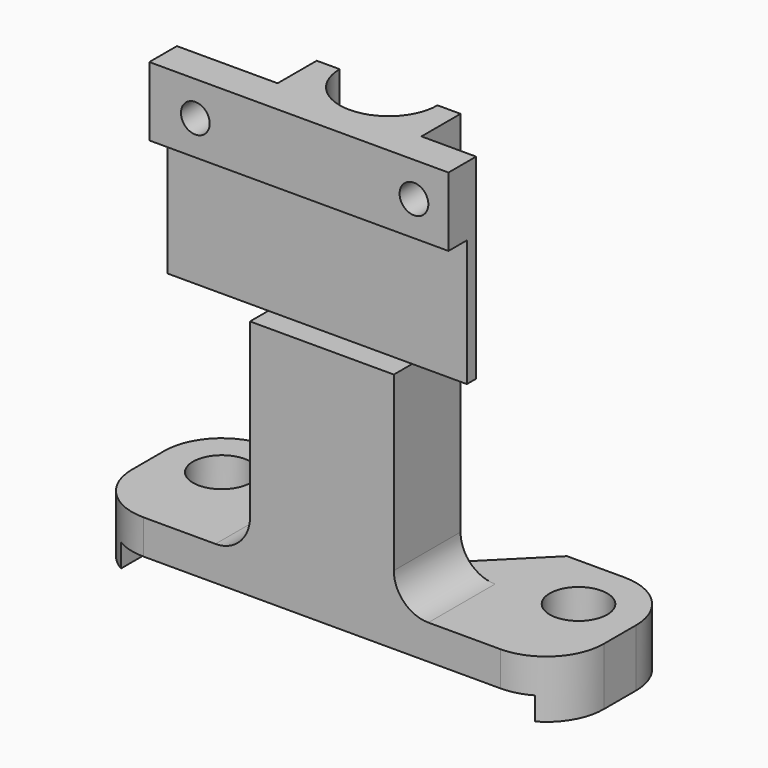
from build123d import *

# Parameters (mm, degrees)
F0_R      = 2.5
F1_DEPTH  = 5
F3_DEPTH  = 40
F4_W      = 8.75
F4_H      = 3
F4_W_2    = 4.75
F5_DEPTH  = 17
F7_DEPTH  = 2
F8_D      = 2.5
F9_R      = 5
F11_DEPTH = 2
F12_R     = 3


with BuildPart() as f1:
    # F0 (on Top) → F1 (new body)
    with BuildSketch(Plane.XY):
        with BuildLine():
            Line((10.5, 5), (4.25, -1.25))
            ThreePointArc((4.25, -1.25), (0, -5.5), (-4.25, -1.25))
            Line((-4.25, -1.25), (-10.5, 5))
            Line((-10.5, 5), (-20.5, 5))
            Line((-20.5, 5), (-20.5, -8.5))
            Line((-20.5, -8.5), (0, -8.5))
            Line((0, -8.5), (20.5, -8.5))
            Line((20.5, -8.5), (20.5, 5))
            Line((20.5, 5), (10.5, 5))
        make_face()
        with Locations((-15.5, 0)):
            Circle(F0_R, mode=Mode.SUBTRACT)
        with Locations((15.5, 0)):
            Circle(F0_R, mode=Mode.SUBTRACT)
    extrude(amount=F1_DEPTH)

    # F2 (on face) → F3 (join)
    with BuildSketch(Plane(origin=(0, 0, 0), x_dir=(1, 0, 0), z_dir=(0, 0, -1))):
        with BuildLine():
            Line((-6.25, 1.25), (-4.25, 1.25))
            ThreePointArc((-4.25, 1.25), (0, 5.5), (4.25, 1.25))
            Line((4.25, 1.25), (6.25, 1.25))
            Line((6.25, 1.25), (6.25, 8.5))
            Line((6.25, 8.5), (-6.25, 8.5))
            Line((-6.25, 8.5), (-6.25, 1.25))
        make_face()
    extrude(amount=-F3_DEPTH)

    # F4 (on face) → F5 (join)
    with BuildSketch(Plane.XY.offset(40)):
        with Locations((-10.625, -7)):
            Rectangle(F4_W, F4_H)
        Polygon((0, -5.5), (-6.25, -5.5), (-6.25, -8.5), (6.25, -8.5), (6.25, -5.5), align=None)
        with Locations((8.625, -7)):
            Rectangle(F4_W_2, F4_H)
    extrude(amount=-F5_DEPTH)

    # F6 (on face) → F7 (cut)
    with BuildSketch(Plane.XZ.offset(8.5)):
        Polygon((11, 34), (-15, 34), (-15, 23), (-6.25, 23), (6.25, 23), (11, 23), align=None)
    extrude(amount=-F7_DEPTH, mode=Mode.SUBTRACT)

    # F8 (through all)
    with Locations(Plane.XZ.offset(8.5)):
        with Locations((-11, 37), (8, 37)):
            Hole(F8_D / 2)

    # F9
    f9_edges = [f1.edges().sort_by_distance(p)[0] for p in [
        (20.5, -8.5, 2.5),
        (-20.5, 5, 2.5),
        (-20.5, -8.5, 2.5),
        (20.5, 5, 2.5),
    ]]
    fillet(f9_edges, radius=F9_R)

    # F10 (on face) → F11 (cut)
    with BuildSketch(Plane(origin=(0, 0, 0), x_dir=(1, 0, 0), z_dir=(0, 0, -1))):
        with BuildLine():
            ThreePointArc((-15.5, 8.5), (-16.7940952255, 8.3296291314), (-18, 7.8301270189))
            Line((-18, 7.8301270189), (-18, 4))
            Line((-18, 4), (-3.2403703492, 4))
            ThreePointArc((-3.2403703492, 4), (0, 5.5), (3.2403703492, 4))
            Line((3.2403703492, 4), (18, 4))
            Line((18, 4), (18, 7.8301270189))
            ThreePointArc((18, 7.8301270189), (16.7940952255, 8.3296291314), (15.5, 8.5))
            Line((15.5, 8.5), (-15.5, 8.5))
        make_face()
    extrude(amount=-F11_DEPTH, mode=Mode.SUBTRACT)

    # F12
    f12_edges = [f1.edges().sort_by_distance(p)[0] for p in [
        (6.25, -4.875, 5),
        (-6.25, -4.875, 5),
    ]]
    fillet(f12_edges, radius=F12_R)


solid = f1.part
